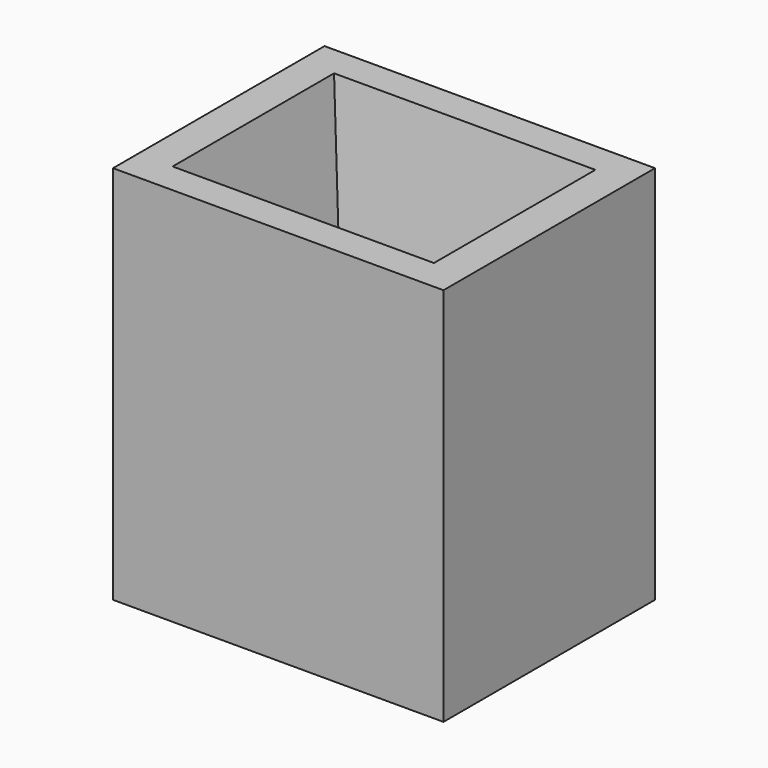
from build123d import *

# Parameters (mm, degrees)
F0_W     = 762
F0_H     = 609.6
F1_DEPTH = 876.3
F2_W     = 602.6056408882
F2_H     = 465.2958512306
F3_DEPTH = 304.8
F3_TAPER = 10


with BuildPart() as f1:
    # F0 (on Top) → F1 (new body)
    with BuildSketch(Plane.XY):
        Rectangle(F0_W, F0_H)
    extrude(amount=F1_DEPTH)

    # F2 (on face) → F3 (cut)
    with BuildSketch(Plane.XY.offset(876.3)):
        Rectangle(F2_W, F2_H)
    extrude(amount=-F3_DEPTH, taper=F3_TAPER, mode=Mode.SUBTRACT)


solid = f1.part
